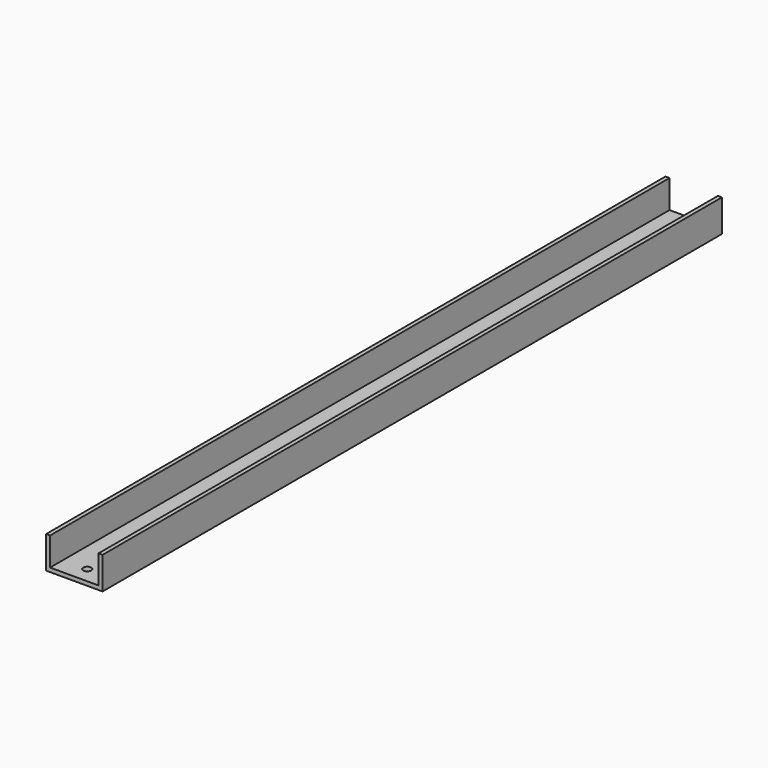
from build123d import *

# Parameters (mm, degrees)
F0_W     = 3.175
F0_H     = 609.6
F0_W_2   = 38.1
F0_R     = 3.175
F1_DEPTH = 3.175
F2_DEPTH = 22.225


with BuildPart() as f1:
    # F0 (on Top) → F1 (new body)
    with BuildSketch(Plane.XY):
        with Locations((1.5875, -304.8)):
            Rectangle(F0_W, F0_H)
        with Locations((22.225, -304.8)):
            Rectangle(F0_W_2, F0_H)
        with Locations((22.225, -596.9)):
            Circle(F0_R, mode=Mode.SUBTRACT)
        with Locations((22.225, -12.7)):
            Circle(F0_R, mode=Mode.SUBTRACT)
        with Locations((42.8625, -304.8)):
            Rectangle(F0_W, F0_H)
    extrude(amount=-F1_DEPTH)

    # F0 (on Top) → F2 (join)
    with BuildSketch(Plane.XY):
        with Locations((1.5875, -304.8)):
            Rectangle(F0_W, F0_H)
        with Locations((42.8625, -304.8)):
            Rectangle(F0_W, F0_H)
    extrude(amount=F2_DEPTH)


solid = f1.part
